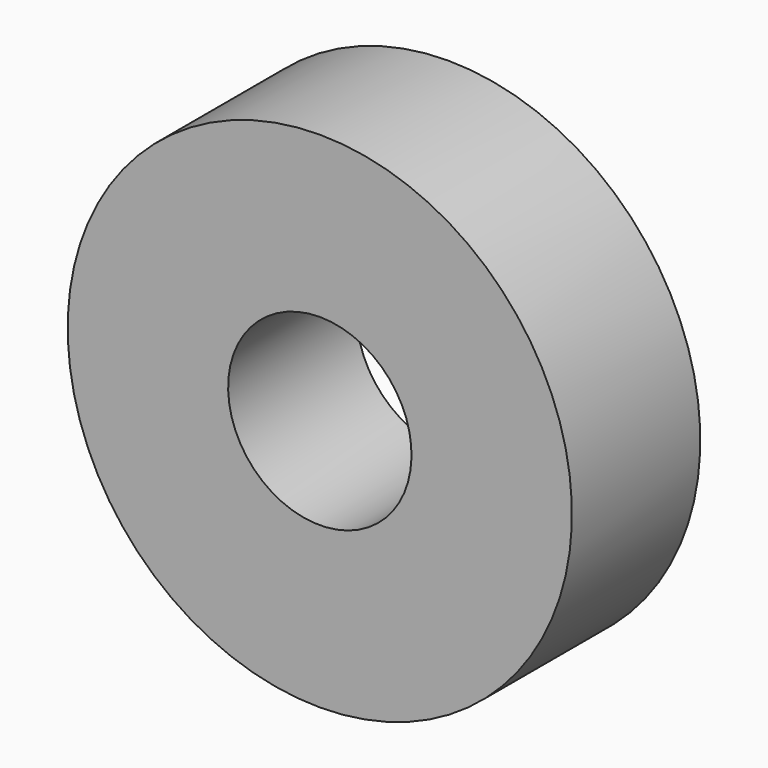
from build123d import *

# Parameters (mm, degrees)
SKETCH_W = 7
SKETCH_H = 7


with BuildPart() as part:
    # Sketch → Revolution (revolve)
    with BuildSketch(Plane.YZ):
        with Locations((0, 7.5)):
            Rectangle(SKETCH_W, SKETCH_H)
    revolve(axis=Axis((0, 0, 0), (0, 1, 0)))


solid = part.part
